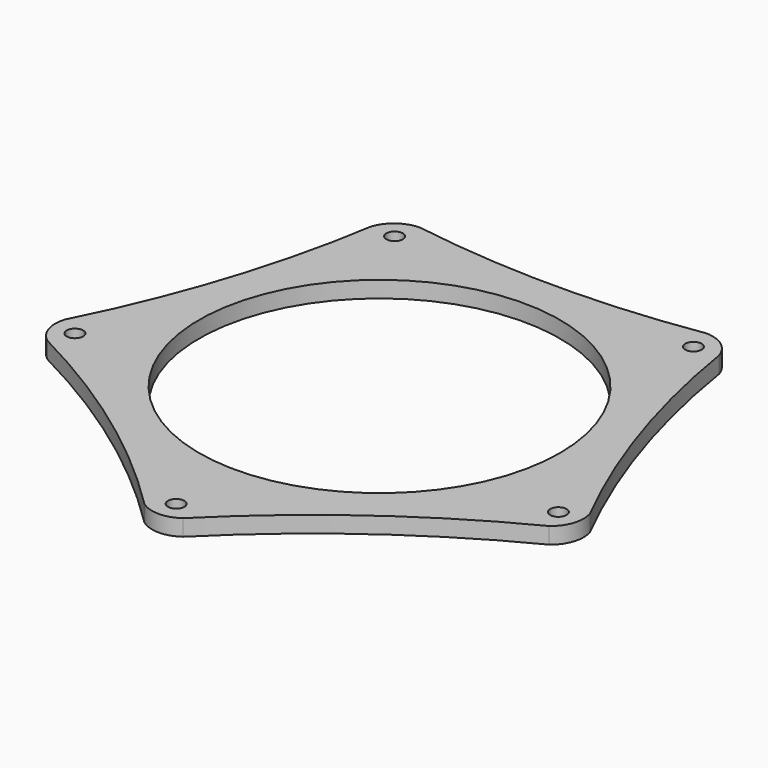
from build123d import *

# Parameters (mm, degrees)
F0_R     = 69.85
F1_DEPTH = 6.35
F2_R     = 12.7
F3_R     = 3.175
F4_DEPTH = 6.35
F6_DEPTH = 6.35


with BuildPart() as f1:
    # F0 (on Top) → F1 (new body)
    with BuildSketch(Plane.XY):
        Polygon((64.5896307397, 88.9), (-64.5896307397, 88.9), (-104.5082178576, -33.9567784001), (0, -109.8864431997), (104.5082178576, -33.9567784001), align=None)
        Circle(F0_R, mode=Mode.SUBTRACT)
    extrude(amount=F1_DEPTH)

    # F2
    f2_edges = [f1.edges().sort_by_distance(p)[0] for p in [
        (-64.589631, 88.9, 3.175),
        (-104.508218, -33.956778, 3.175),
        (0, -109.886443, 3.175),
        (104.508218, -33.956778, 3.175),
        (64.589631, 88.9, 3.175),
    ]]
    fillet(f2_edges, radius=F2_R)

    # F3 (on face) → F4 (cut, through all)
    with BuildSketch(Plane.XY.offset(6.35)):
        with Locations((0, -98.425)):
            Circle(F3_R)
        with Locations((93.6077376164, -30.4149976714)):
            Circle(F3_R)
        with Locations((57.8527634569, 79.6274976714)):
            Circle(F3_R)
        with Locations((-57.8527634569, 79.6274976714)):
            Circle(F3_R)
        with Locations((-93.6077376164, -30.4149976714)):
            Circle(F3_R)
    extrude(amount=-F4_DEPTH, mode=Mode.SUBTRACT)

    # F5 (on face) → F6 (cut, through all)
    with BuildSketch(Plane.XY.offset(6.35)):
        with BuildLine():
            Line((55.362540634, 88.9), (-55.362540634, 88.9))
            ThreePointArc((-55.362540634, 88.9), (0, 84.5639308192), (55.362540634, 88.9))
        make_face()
        with BuildLine():
            ThreePointArc((-101.6568902063, -25.1812942287), (-80.4250774491, 26.1316917343), (-67.440958391, 80.1245158286))
            Line((-67.440958391, 80.1245158286), (-101.6568902063, -25.1812942287))
        make_face()
        with BuildLine():
            ThreePointArc((-7.4648727041, -104.462895714), (-49.7054314114, -68.4136571439), (-97.0433451535, -39.3803258858))
            Line((-97.0433451535, -39.3803258858), (-7.4648727041, -104.462895714))
        make_face()
        with BuildLine():
            ThreePointArc((97.0433451535, -39.3803258858), (49.7054314114, -68.4136571439), (7.4648727041, -104.462895714))
            Line((7.4648727041, -104.462895714), (97.0433451535, -39.3803258858))
        make_face()
        with BuildLine():
            ThreePointArc((67.440958391, 80.1245158286), (80.4250774491, 26.1316917343), (101.6568902063, -25.1812942287))
            Line((101.6568902063, -25.1812942287), (67.440958391, 80.1245158286))
        make_face()
    extrude(amount=-F6_DEPTH, mode=Mode.SUBTRACT)


solid = f1.part
